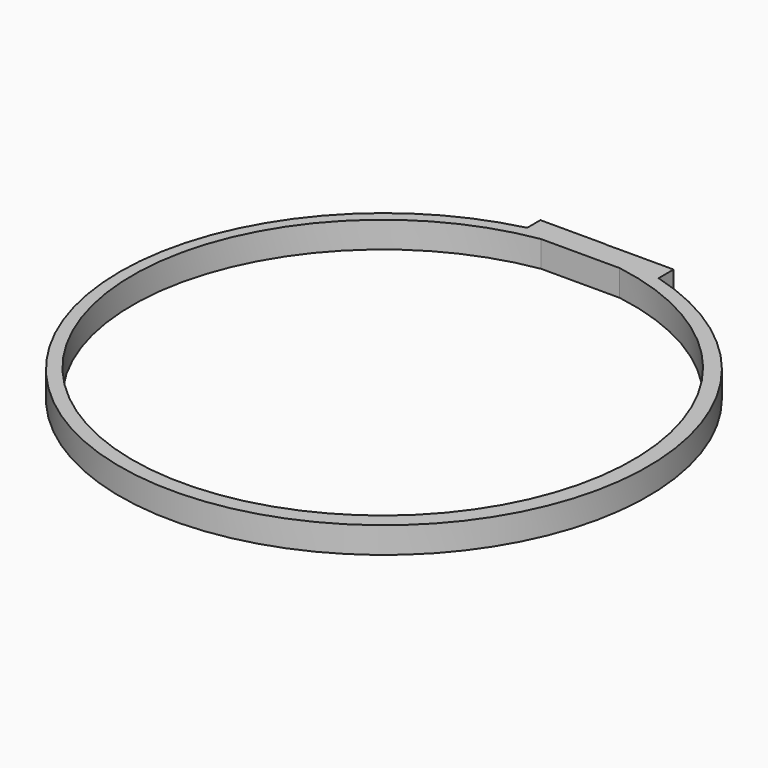
from build123d import *

# Parameters (mm, degrees)
F1_DEPTH = 10.16
F2_W     = 22.450389
F2_H     = 7.812757
F2_W_2   = 25.419857
F2_H_2   = 7.90077
F3_DEPTH = 10.16


with BuildPart() as f1:
    # F0 (on Top) → F1 (new body)
    with BuildSketch(Plane.XY):
        with BuildLine():
            Line((-17.548205, 42.277705), (-17.548205, 46.999741))
            ThreePointArc((-17.548205, 46.999741), (-0.468223, -156.444048), (12.993952, 47.271123))
            Line((12.993952, 47.271123), (12.993952, 42.277705))
            ThreePointArc((12.993952, 42.277705), (-2.277126, -150.537772), (-17.548205, 42.277705))
        make_face()
        Polygon((-17.548205, 51.716547), (-17.548205, 46.999741), (-17.548205, 42.277705), (12.993952, 42.277705), (12.993952, 47.271123), (12.993952, 51.716547), align=None)
    extrude(amount=F1_DEPTH)

    # F2 (on Top) → F3 (join)
    with BuildSketch(Plane.XY):
        with Locations((15.079436, 47.855241)):
            Rectangle(F2_W, F2_H)
        with Locations((-12.709929, 47.899248)):
            Rectangle(F2_W_2, F2_H_2)
    extrude(amount=F3_DEPTH)


solid = f1.part
